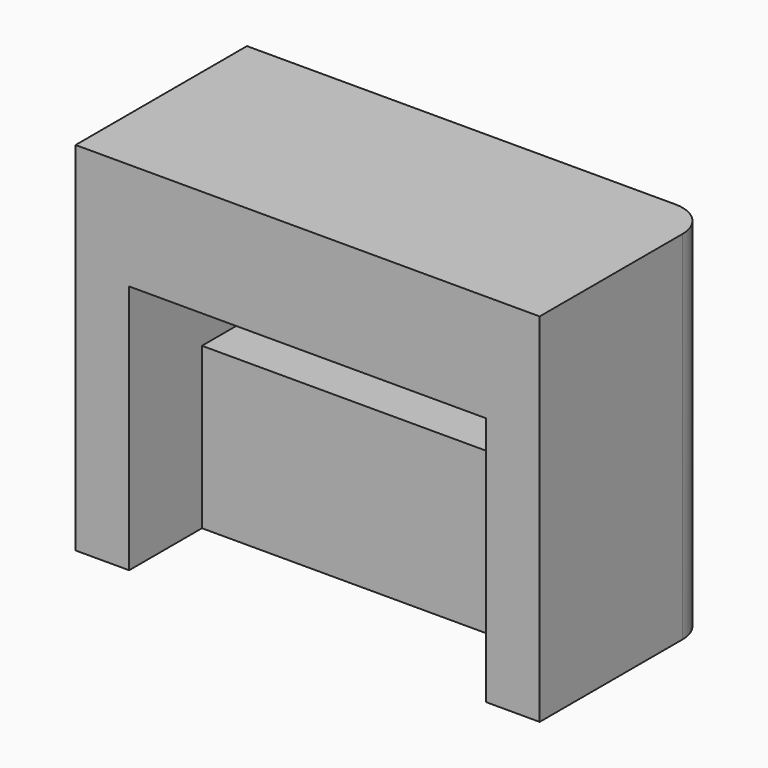
from build123d import *

# Parameters (mm, degrees)
PAD014_DEPTH    = 10
SKETCH_W        = 10
SKETCH_H        = 2.5
POCKET_DEPTH    = 5
SKETCH029_W     = 13
SKETCH029_H     = 3
PAD015_DEPTH    = 3
SKETCH030_W     = 10
SKETCH030_H     = 7
POCKET002_DEPTH = 1


with BuildPart() as obj1:
    # Sketch015 → Pad014 (new body)
    with BuildSketch(Plane.XY):
        with BuildLine():
            Line((10, -9), (10, -15))
            Line((10, -15), (12.625, -15))
            Line((12.625, -15), (12.625, -14.4))
            Line((12.625, -14.4), (11.5, -14.4))
            Line((11.5, -14.4), (11.5, -12.45))
            Line((11.5, -12.45), (21.5, -12.45))
            Line((21.5, -12.45), (21.5, -14.4))
            Line((21.5, -14.4), (20.375, -14.4))
            Line((20.375, -14.4), (20.375, -15))
            Line((20.375, -15), (23, -15))
            Line((23, -15), (23, -10))
            ThreePointArc((23, -10), (22.707107, -9.292893), (22, -9))
            Line((22, -9), (10, -9))
        make_face()
    extrude(amount=PAD014_DEPTH)

    # Sketch (on Face6 of Pad014) → Pocket (cut)
    with BuildSketch(Plane.XZ.offset(12.45)):
        with Locations((16.5, 4.25)):
            Rectangle(SKETCH_W, SKETCH_H)
    extrude(amount=-POCKET_DEPTH, mode=Mode.SUBTRACT)

    # Sketch029 (on Face4 of Pocket) → Pad015 (join)
    with BuildSketch(Plane(origin=(0, 0, 0), x_dir=(1, 0, 0), z_dir=(0, 0, -1))):
        with Locations((16.5, 13.5)):
            Rectangle(SKETCH029_W, SKETCH029_H)
    extrude(amount=-PAD015_DEPTH)

    # Sketch030 (on Face4 of Pad015) → Pocket002 (cut)
    with BuildSketch(Plane.XZ.offset(15)):
        with Locations((16.5, 6.5)):
            Rectangle(SKETCH030_W, SKETCH030_H)
    extrude(amount=-POCKET002_DEPTH, mode=Mode.SUBTRACT)


with BuildPart() as obj2:
    # Part__Mirroring: instance of obj1
    add(obj1.part.mirror(Plane(origin=(0, 0, 72.5), x_dir=(0, 1, 0), z_dir=(0, 0, 1))))


solid = obj2.part
